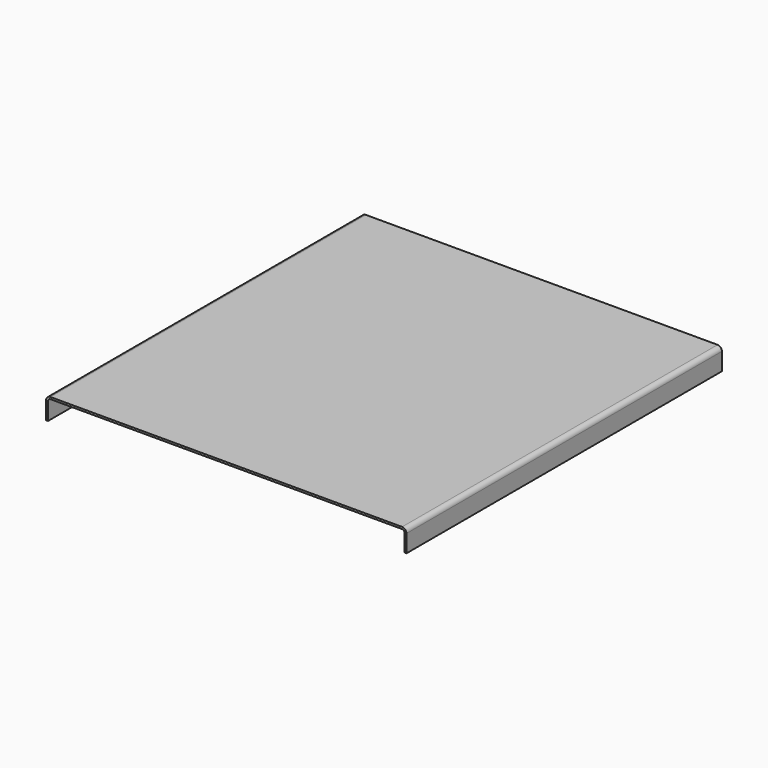
from build123d import *

# Parameters (mm, degrees)
F1_DEPTH = 457.2


with BuildPart() as f1:
    # F0 (on Front) → F1 (new body)
    with BuildSketch(Plane.XZ):
        with BuildLine():
            Line((203.835, 0), (-203.835, 0))
            ThreePointArc((-203.835, 0), (-207.427102, -1.487898), (-208.915, -5.08))
            Line((-208.915, -5.08), (-208.915, -25.4))
            Line((-208.915, -25.4), (-206.629, -25.4))
            Line((-206.629, -25.4), (-206.629, -4.826))
            ThreePointArc((-206.629, -4.826), (-205.885051, -3.029949), (-204.089, -2.286))
            Line((-204.089, -2.286), (204.089, -2.286))
            ThreePointArc((204.089, -2.286), (205.885051, -3.029949), (206.629, -4.826))
            Line((206.629, -4.826), (206.629, -25.4))
            Line((206.629, -25.4), (208.915, -25.4))
            Line((208.915, -25.4), (208.915, -5.08))
            ThreePointArc((208.915, -5.08), (207.427102, -1.487898), (203.835, 0))
        make_face()
    extrude(amount=-F1_DEPTH)


solid = f1.part
